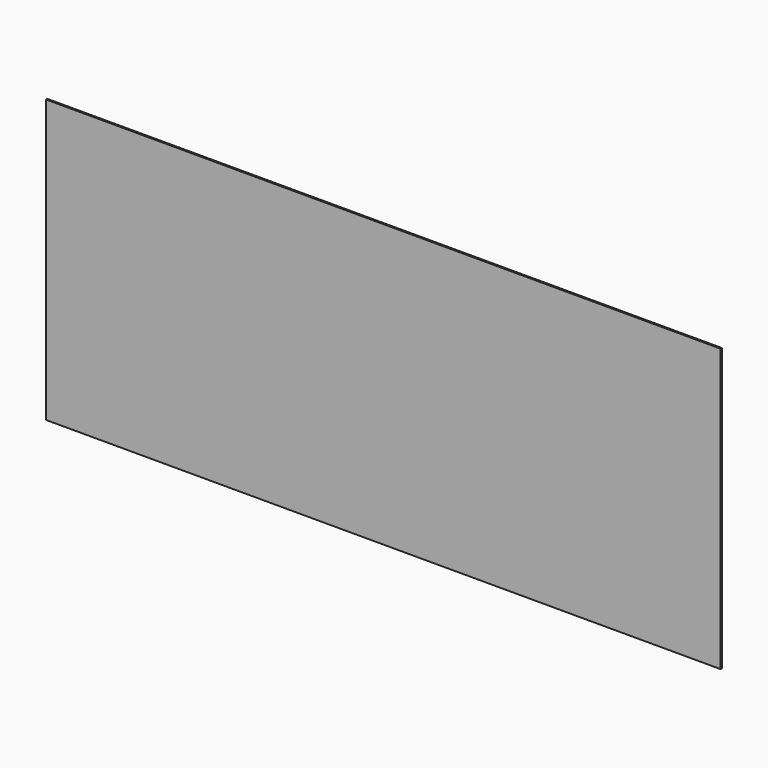
from build123d import *

# Parameters (mm, degrees)
F0_W     = 7924.8
F0_H     = 88.9
F1_DEPTH = 38.1
F2_W     = 38.1
F2_H     = 88.9
F3_DEPTH = 2971.8
F4_W     = 7924.8
F4_H     = 38.1
F5_DEPTH = 88.9
F6_W     = 8382
F6_H     = 3505.2
F7_DEPTH = 19.05


with BuildPart() as f1:
    # F0 (on Top) → F1 (new body)
    with BuildSketch(Plane.XY):
        Rectangle(F0_W, F0_H)
    extrude(amount=F1_DEPTH)

    # F2 (on face) → F3 (join)
    with BuildSketch(Plane.XY.offset(38.1)):
        with Locations((3943.35, 0)):
            Rectangle(F2_W, F2_H)
        with Locations((3536.95, 0)):
            Rectangle(F2_W, F2_H)
        with Locations((3130.55, 0)):
            Rectangle(F2_W, F2_H)
        with Locations((2724.15, 0)):
            Rectangle(F2_W, F2_H)
        with Locations((2317.75, 0)):
            Rectangle(F2_W, F2_H)
        with Locations((1911.35, 0)):
            Rectangle(F2_W, F2_H)
        with Locations((1504.95, 0)):
            Rectangle(F2_W, F2_H)
        with Locations((1098.55, 0)):
            Rectangle(F2_W, F2_H)
        with Locations((692.15, 0)):
            Rectangle(F2_W, F2_H)
        with Locations((285.75, 0)):
            Rectangle(F2_W, F2_H)
        with Locations((-120.65, 0)):
            Rectangle(F2_W, F2_H)
        with Locations((-527.05, 0)):
            Rectangle(F2_W, F2_H)
        with Locations((-933.45, 0)):
            Rectangle(F2_W, F2_H)
        with Locations((-1339.85, 0)):
            Rectangle(F2_W, F2_H)
        with Locations((-1746.25, 0)):
            Rectangle(F2_W, F2_H)
        with Locations((-2152.65, 0)):
            Rectangle(F2_W, F2_H)
        with Locations((-2559.05, 0)):
            Rectangle(F2_W, F2_H)
        with Locations((-2965.45, 0)):
            Rectangle(F2_W, F2_H)
        with Locations((-3943.35, 0)):
            Rectangle(F2_W, F2_H)
        with Locations((-3371.85, 0)):
            Rectangle(F2_W, F2_H)
        with Locations((-3778.25, 0)):
            Rectangle(F2_W, F2_H)
    extrude(amount=F3_DEPTH)

    # F4 (on face) → F5 (join)
    with BuildSketch(Plane.XZ.offset(44.45)):
        with Locations((0, 3028.95)):
            Rectangle(F4_W, F4_H)
    extrude(amount=-F5_DEPTH)

    # F6 (on face) → F7 (join)
    with BuildSketch(Plane.XZ.offset(44.45)):
        with Locations((0, 1524)):
            Rectangle(F6_W, F6_H)
    extrude(amount=F7_DEPTH)


solid = f1.part
